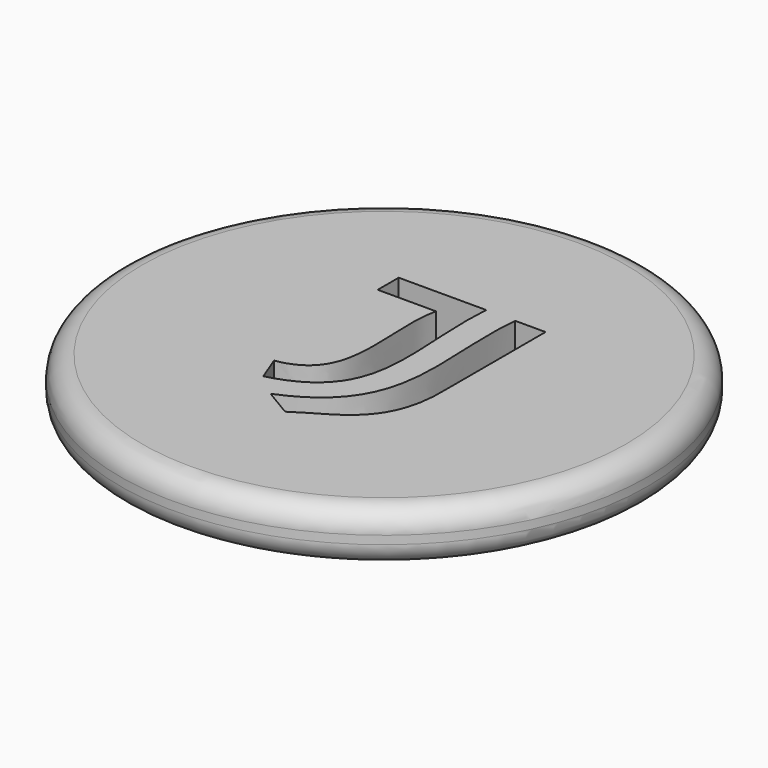
from build123d import *

# Parameters (mm, degrees)
F0_R     = 12.125
F1_DEPTH = 2.38
F2_R     = 1


with BuildPart() as f1:
    # F0 (on Top) → F1 (new body)
    with BuildSketch(Plane.XY):
        Circle(F0_R)
        with BuildLine():
            add(Edge.make_bspline(
                [(2.036581, 4.983431), (1.639226, 1.080341), (3.435804, -3.024245), (-1.276224, -4.923354)],
                knots=[0, 0, 0, 0, 10.446007, 10.446007, 10.446007, 10.446007], degree=3))
            Line((2.036581, 4.983431), (3.429502, 4.983431))
            Line((3.429502, 4.983431), (3.429502, -0.670792))
            add(Edge.make_bspline(
                [(3.429502, -0.670792), (3.556498, -4.298475), (1.374324, -4.697141), (0, -5.683316)],
                knots=[0, 0, 0, 0, 6.073458, 6.073458, 6.073458, 6.073458], degree=3))
            Line((0, -5.683316), (-1.276224, -4.923354))
        make_face(mode=Mode.SUBTRACT)
        with BuildLine():
            Line((-3.320744, 3.784657), (-3.320744, 4.989943))
            Line((-3.320744, 4.989943), (0.701266, 4.989943))
            add(Edge.make_bspline(
                [(0.701266, 4.989943), (0.401681, 1.040562), (2.123402, -2.876976), (-2.325447, -4.02479)],
                knots=[0, 0, 0, 0, 9.509279, 9.509279, 9.509279, 9.509279], degree=3))
            Line((-2.325447, -4.02479), (-2.794653, -2.832613))
            add(Edge.make_bspline(
                [(-0.644522, 3.784657), (-1.176108, 1.48316), (0.391602, -2.325576), (-2.794653, -2.832613)],
                knots=[0, 0, 0, 0, 6.957825, 6.957825, 6.957825, 6.957825], degree=3))
            Line((-0.644522, 3.784657), (-3.320744, 3.784657))
        make_face(mode=Mode.SUBTRACT)
    extrude(amount=F1_DEPTH)

    # F2
    f2_edges = [f1.edges().sort_by_distance(p)[0] for p in [
        (-12.125, 0, 2.38),
        (-12.125, 0, 0),
    ]]
    fillet(f2_edges, radius=F2_R)


solid = f1.part
